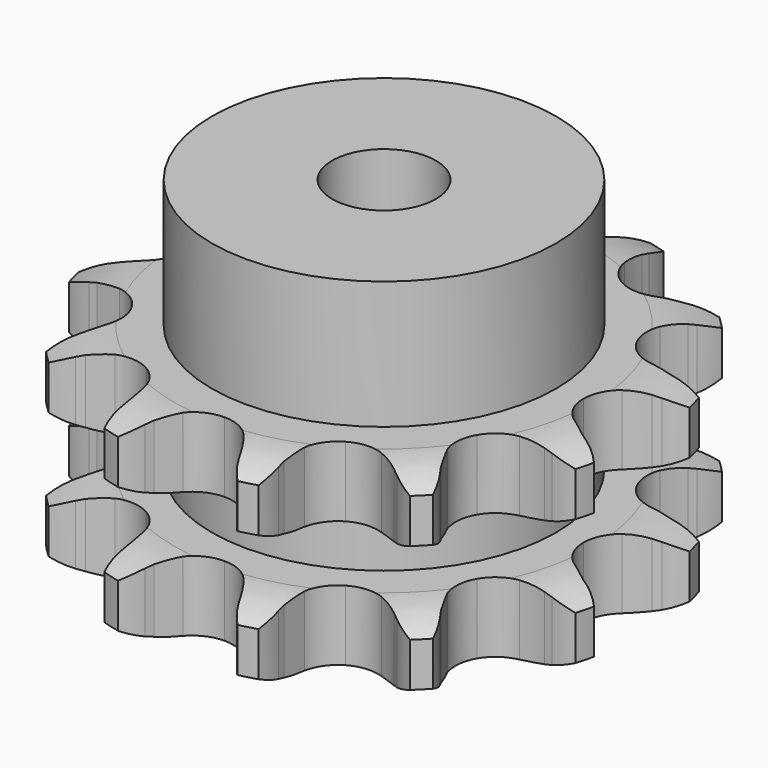
from build123d import *

# Parameters (mm, degrees)
PAD_DEPTH         = 30.3
SKETCH001_R       = 26.5
PAD001_DEPTH      = 50
SKETCH002_R       = 8
POCKET_DEPTH      = 0.001
POCKET_DEPTH_BACK = 50.001


with BuildPart() as part:
    # Sprocket → Pad (new body)
    with BuildSketch(Plane.XY):
        with BuildLine():
            ThreePointArc((-11.01919, 41.124178), (-8.830268, 39.328393), (-7.220259, 36.999424))
            Line((-7.220259, 36.999424), (-6.686077, 35.935781))
            ThreePointArc((-6.686077, 35.935781), (-5.769757, 34.348668), (-4.67538, 32.878664))
            ThreePointArc((-4.67538, 32.878664), (-2.579355, 31.270328), (0, 30.698499))
            ThreePointArc((0, 30.698499), (2.579355, 31.270328), (4.67538, 32.878664))
            ThreePointArc((4.67538, 32.878664), (5.769757, 34.348668), (6.686077, 35.935781))
            Line((6.686077, 35.935781), (7.220259, 36.999424))
            ThreePointArc((7.220259, 36.999424), (8.830268, 39.328393), (11.01919, 41.124178))
            ThreePointArc((11.01919, 41.124178), (12.01696, 38.474521), (12.246784, 35.65257))
            Line((12.246784, 35.65257), (12.177578, 34.464338))
            ThreePointArc((12.177578, 34.464338), (12.177578, 32.631698), (12.390334, 30.811449))
            ThreePointArc((12.390334, 30.811449), (13.401377, 28.370576), (15.349249, 26.58568))
            ThreePointArc((15.349249, 26.58568), (17.868952, 25.791221), (20.48833, 26.136069))
            Line((20.48833, 26.136069), (23.758204, 27.778261))
            ThreePointArc((23.758204, 27.778261), (24.249244, 28.114678), (24.752639, 28.432312))
            ThreePointArc((24.752639, 28.432312), (27.311433, 29.644253), (30.104988, 30.104988))
            ThreePointArc((30.104988, 30.104988), (29.644253, 27.311433), (28.432312, 24.752639))
            Line((28.432312, 24.752639), (27.778261, 23.758204))
            ThreePointArc((27.778261, 23.758204), (26.861941, 22.17109), (26.136069, 20.48833))
            ThreePointArc((26.136069, 20.48833), (25.791221, 17.868952), (26.58568, 15.349249))
            ThreePointArc((26.58568, 15.349249), (28.370576, 13.401377), (30.811449, 12.390334))
            Line((30.811449, 12.390334), (34.464338, 12.177578))
            ThreePointArc((34.464338, 12.177578), (35.057801, 12.223403), (35.65257, 12.246784))
            ThreePointArc((35.65257, 12.246784), (38.474521, 12.01696), (41.124178, 11.01919))
            ThreePointArc((41.124178, 11.01919), (39.328393, 8.830268), (36.999424, 7.220259))
            Line((36.999424, 7.220259), (35.935781, 6.686077))
            ThreePointArc((35.935781, 6.686077), (34.348668, 5.769757), (32.878664, 4.67538))
            ThreePointArc((32.878664, 4.67538), (31.270328, 2.579355), (30.698499, 0))
            ThreePointArc((30.698499, 0), (31.270328, -2.579355), (32.878664, -4.67538))
            Line((32.878664, -4.67538), (35.935781, -6.686077))
            ThreePointArc((35.935781, -6.686077), (36.472648, -6.943123), (36.999424, -7.220259))
            ThreePointArc((36.999424, -7.220259), (39.328393, -8.830268), (41.124178, -11.01919))
            ThreePointArc((41.124178, -11.01919), (38.474521, -12.01696), (35.65257, -12.246784))
            Line((35.65257, -12.246784), (34.464338, -12.177578))
            ThreePointArc((34.464338, -12.177578), (32.631698, -12.177578), (30.811449, -12.390334))
            ThreePointArc((30.811449, -12.390334), (28.370576, -13.401377), (26.58568, -15.349249))
            ThreePointArc((26.58568, -15.349249), (25.791221, -17.868952), (26.136069, -20.48833))
            Line((26.136069, -20.48833), (27.778261, -23.758204))
            ThreePointArc((27.778261, -23.758204), (28.114678, -24.249244), (28.432312, -24.752639))
            ThreePointArc((28.432312, -24.752639), (29.644253, -27.311433), (30.104988, -30.104988))
            ThreePointArc((30.104988, -30.104988), (27.311433, -29.644253), (24.752639, -28.432312))
            Line((24.752639, -28.432312), (23.758204, -27.778261))
            ThreePointArc((23.758204, -27.778261), (22.17109, -26.861941), (20.48833, -26.136069))
            ThreePointArc((20.48833, -26.136069), (17.868952, -25.791221), (15.349249, -26.58568))
            ThreePointArc((15.349249, -26.58568), (13.401377, -28.370576), (12.390334, -30.811449))
            Line((12.390334, -30.811449), (12.177578, -34.464338))
            ThreePointArc((12.177578, -34.464338), (12.223403, -35.057801), (12.246784, -35.65257))
            ThreePointArc((12.246784, -35.65257), (12.01696, -38.474521), (11.01919, -41.124178))
            ThreePointArc((11.01919, -41.124178), (8.830268, -39.328393), (7.220259, -36.999424))
            Line((7.220259, -36.999424), (6.686077, -35.935781))
            ThreePointArc((6.686077, -35.935781), (5.769757, -34.348668), (4.67538, -32.878664))
            ThreePointArc((4.67538, -32.878664), (2.579355, -31.270328), (0, -30.698499))
            ThreePointArc((0, -30.698499), (-2.579355, -31.270328), (-4.67538, -32.878664))
            Line((-4.67538, -32.878664), (-6.686077, -35.935781))
            ThreePointArc((-6.686077, -35.935781), (-6.943123, -36.472648), (-7.220259, -36.999424))
            ThreePointArc((-7.220259, -36.999424), (-8.830268, -39.328393), (-11.01919, -41.124178))
            ThreePointArc((-11.01919, -41.124178), (-12.01696, -38.474521), (-12.246784, -35.65257))
            Line((-12.246784, -35.65257), (-12.177578, -34.464338))
            ThreePointArc((-12.177578, -34.464338), (-12.177578, -32.631698), (-12.390334, -30.811449))
            ThreePointArc((-12.390334, -30.811449), (-13.401377, -28.370576), (-15.349249, -26.58568))
            ThreePointArc((-15.349249, -26.58568), (-17.868952, -25.791221), (-20.48833, -26.136069))
            Line((-20.48833, -26.136069), (-23.758204, -27.778261))
            ThreePointArc((-23.758204, -27.778261), (-24.249244, -28.114678), (-24.752639, -28.432312))
            ThreePointArc((-24.752639, -28.432312), (-27.311433, -29.644253), (-30.104988, -30.104988))
            ThreePointArc((-30.104988, -30.104988), (-29.644253, -27.311433), (-28.432312, -24.752639))
            Line((-28.432312, -24.752639), (-27.778261, -23.758204))
            ThreePointArc((-27.778261, -23.758204), (-26.861941, -22.17109), (-26.136069, -20.48833))
            ThreePointArc((-26.136069, -20.48833), (-25.791221, -17.868952), (-26.58568, -15.349249))
            ThreePointArc((-26.58568, -15.349249), (-28.370576, -13.401377), (-30.811449, -12.390334))
            Line((-30.811449, -12.390334), (-34.464338, -12.177578))
            ThreePointArc((-34.464338, -12.177578), (-35.057801, -12.223403), (-35.65257, -12.246784))
            ThreePointArc((-35.65257, -12.246784), (-38.474521, -12.01696), (-41.124178, -11.01919))
            ThreePointArc((-41.124178, -11.01919), (-39.328393, -8.830268), (-36.999424, -7.220259))
            Line((-36.999424, -7.220259), (-35.935781, -6.686077))
            ThreePointArc((-35.935781, -6.686077), (-34.348668, -5.769757), (-32.878664, -4.67538))
            ThreePointArc((-32.878664, -4.67538), (-31.270328, -2.579355), (-30.698499, 0))
            ThreePointArc((-30.698499, 0), (-31.270328, 2.579355), (-32.878664, 4.67538))
            Line((-32.878664, 4.67538), (-35.935781, 6.686077))
            ThreePointArc((-35.935781, 6.686077), (-36.472648, 6.943123), (-36.999424, 7.220259))
            ThreePointArc((-36.999424, 7.220259), (-39.328393, 8.830268), (-41.124178, 11.01919))
            ThreePointArc((-41.124178, 11.01919), (-38.474521, 12.01696), (-35.65257, 12.246784))
            Line((-35.65257, 12.246784), (-34.464338, 12.177578))
            ThreePointArc((-34.464338, 12.177578), (-32.631698, 12.177578), (-30.811449, 12.390334))
            ThreePointArc((-30.811449, 12.390334), (-28.370576, 13.401377), (-26.58568, 15.349249))
            ThreePointArc((-26.58568, 15.349249), (-25.791221, 17.868952), (-26.136069, 20.48833))
            Line((-26.136069, 20.48833), (-27.778261, 23.758204))
            ThreePointArc((-27.778261, 23.758204), (-28.114678, 24.249244), (-28.432312, 24.752639))
            ThreePointArc((-28.432312, 24.752639), (-29.644253, 27.311433), (-30.104988, 30.104988))
            ThreePointArc((-30.104988, 30.104988), (-27.311433, 29.644253), (-24.752639, 28.432312))
            Line((-24.752639, 28.432312), (-23.758204, 27.778261))
            ThreePointArc((-23.758204, 27.778261), (-22.17109, 26.861941), (-20.48833, 26.136069))
            ThreePointArc((-20.48833, 26.136069), (-17.868952, 25.791221), (-15.349249, 26.58568))
            ThreePointArc((-15.349249, 26.58568), (-13.401377, 28.370576), (-12.390334, 30.811449))
            Line((-12.390334, 30.811449), (-12.177578, 34.464338))
            ThreePointArc((-12.177578, 34.464338), (-12.223403, 35.057801), (-12.246784, 35.65257))
            ThreePointArc((-12.246784, 35.65257), (-12.01696, 38.474521), (-11.01919, 41.124178))
        make_face()
    extrude(amount=PAD_DEPTH)

    # Sketch → Groove (revolve, cut)
    with BuildSketch(Plane.XZ):
        with BuildLine():
            ThreePointArc((32.264719, 0), (36.623618, 0.506758), (40.75, 2))
            Line((40.75, 2), (40.75, 8.8))
            ThreePointArc((40.75, 8.8), (36.623618, 10.293242), (32.264719, 10.8))
            Line((26.5, 10.8), (32.264719, 10.8))
            Line((26.5, 19.5), (26.5, 10.8))
            Line((32.264719, 19.5), (26.5, 19.5))
            ThreePointArc((32.264719, 19.5), (36.623618, 20.006758), (40.75, 21.5))
            Line((40.75, 21.5), (40.75, 28.3))
            ThreePointArc((40.75, 28.3), (36.623618, 29.793242), (32.264719, 30.3))
            Line((32.264719, 30.3), (50.75, 30.3))
            Line((50.75, 30.3), (50.75, 0))
            Line((32.264719, 0), (50.75, 0))
        make_face()
    revolve(axis=Axis((0, 0, 0), (0, 0, 1)), mode=Mode.SUBTRACT)

    # Sketch001 → Pad001 (join)
    with BuildSketch(Plane.XY):
        Circle(SKETCH001_R)
    extrude(amount=PAD001_DEPTH)

    # Sketch002 → Pocket (cut, two sides)
    with BuildSketch(Plane.XY) as pocket_sk:
        Circle(SKETCH002_R)
    extrude(amount=-POCKET_DEPTH, mode=Mode.SUBTRACT)
    extrude(pocket_sk.sketch, amount=POCKET_DEPTH_BACK, mode=Mode.SUBTRACT)


solid = part.part
